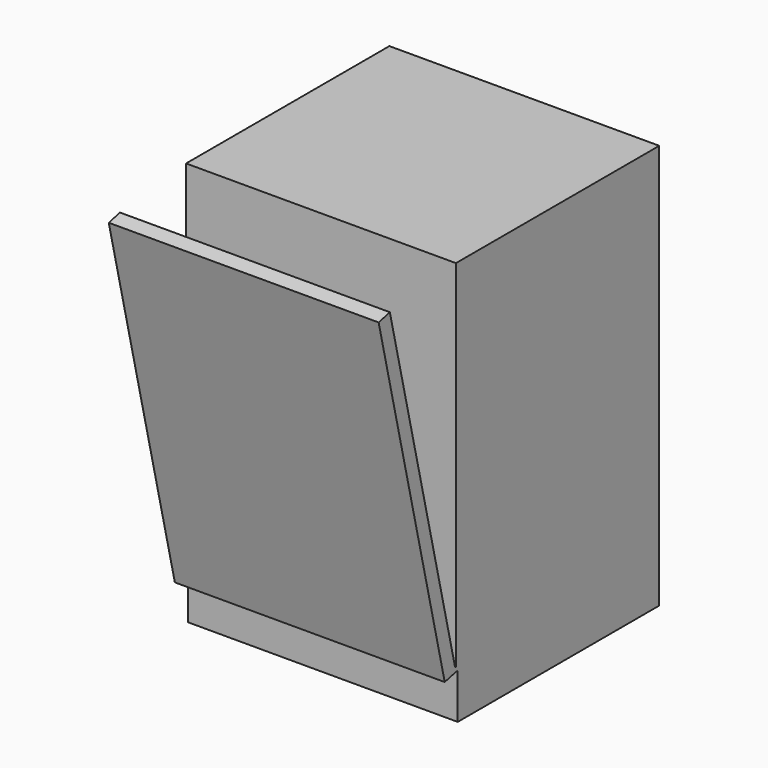
from build123d import *

# Parameters (mm, degrees)
F0_W     = 600
F0_H     = 600
F1_DEPTH = 900
F2_W     = 600
F2_H     = 100
F3_DEPTH = 40
F4_W     = 600
F4_H     = 800
F5_DEPTH = 35
F7_DEPTH = 300


with BuildPart() as f1:
    # F0 (on Top) → F1 (new body)
    with BuildSketch(Plane.XY):
        Rectangle(F0_W, F0_H)
    extrude(amount=F1_DEPTH)

    # F2 (on face) → F3 (cut)
    with BuildSketch(Plane.XZ.offset(300)):
        with Locations((0, 50)):
            Rectangle(F2_W, F2_H)
    extrude(amount=-F3_DEPTH, mode=Mode.SUBTRACT)

    # F4 (on face) → F5 (cut)
    with BuildSketch(Plane.XZ.offset(300)):
        with Locations((0, 500)):
            Rectangle(F4_W, F4_H)
    extrude(amount=-F5_DEPTH, mode=Mode.SUBTRACT)

    # F6 (on Right) → F7 (join, symmetric)
    with BuildSketch(Plane.YZ):
        Polygon((-296.1448182649, 92.6515106829), (-265, 100), (-255.2672442922, 102.2964029116), (-257.5636472038, 112.0291586194), (-267.2964029116, 109.7327557078), (-448.7122329282, 878.6204566235), (-479.8570511932, 871.2719673063), align=None)
    extrude(amount=F7_DEPTH, both=True)


solid = f1.part
